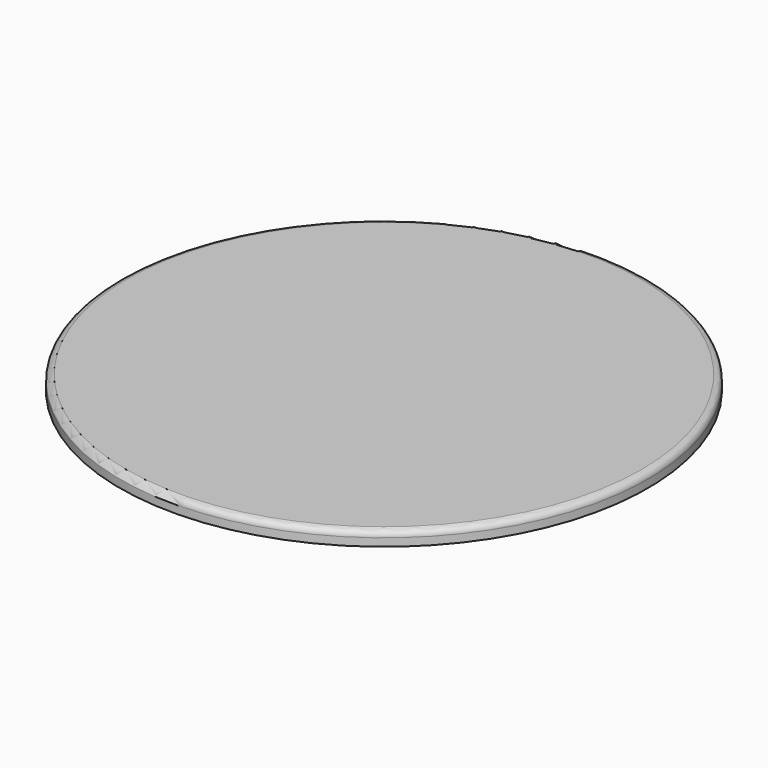
from build123d import *


with BuildPart() as f1:
    # F0 (on Front) → F1 (revolve)
    with BuildSketch(Plane.XZ):
        with BuildLine():
            Line((0, 8.382), (0, 0))
            Line((0, 0), (1.905, 0))
            Line((1.905, 0), (1.905, 8.382))
            ThreePointArc((1.905, 8.382), (3.3557, 11.8843), (6.858, 13.335))
            Line((6.858, 13.335), (281.686, 13.335))
            Line((281.686, 13.335), (281.686, 15.24))
            Line((281.686, 15.24), (23.494648, 15.24))
            Line((23.494648, 15.24), (6.858, 15.24))
            ThreePointArc((6.858, 15.24), (2.008662, 13.231338), (0, 8.382))
        make_face()
    revolve(axis=Axis((281.686, 0, 14.2875), (0, 0, 1)))


solid = f1.part
